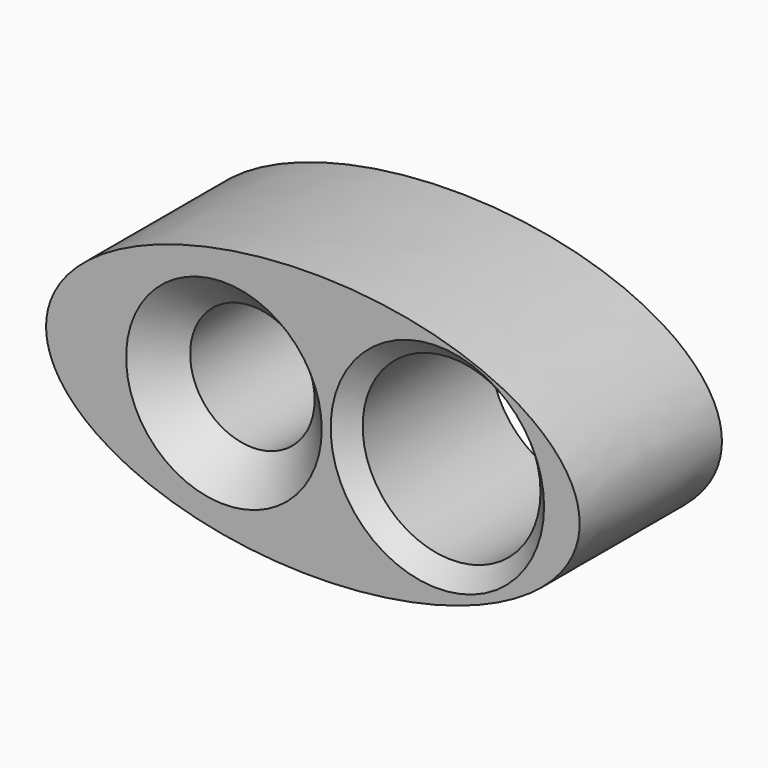
from build123d import *

# Parameters (mm, degrees)
F0_R     = 8.89
F0_R_2   = 12.7
F1_DEPTH = 25.4
F2_SIZE  = 2.54
F3_SIZE  = 5.08


with BuildPart() as f1:
    # F0 (on Front) → F1 (new body)
    with BuildSketch(Plane.XZ):
        with BuildLine():
            add(Edge.make_bspline(
                [(23.491908, 19.728251), (23.491908, 52.723819), (-33.658092, 36.226035), (-90.808092, 19.728251), (-33.658092, 3.230467), (23.491908, -13.267317), (23.491908, 19.728251)],
                knots=[0, 0, 0, 2.094395, 2.094395, 4.18879, 4.18879, 6.283185, 6.283185, 6.283185], degree=2, weights=[1, 0.5, 1, 0.5, 1, 0.5, 1]))
        make_face()
        with Locations((-27.308092, 19.582146)):
            Circle(F0_R, mode=Mode.SUBTRACT)
        with Locations((3.171908, 20.203951)):
            Circle(F0_R_2, mode=Mode.SUBTRACT)
    extrude(amount=F1_DEPTH)

    # F2
    f2_edges = [f1.edges().sort_by_distance(p)[0] for p in [
        (-9.528092, -25.4, 20.203951),
    ]]
    chamfer(f2_edges, length=F2_SIZE)

    # F3
    f3_edges = [f1.edges().sort_by_distance(p)[0] for p in [
        (-36.198092, -25.4, 19.582146),
    ]]
    chamfer(f3_edges, length=F3_SIZE)


solid = f1.part
